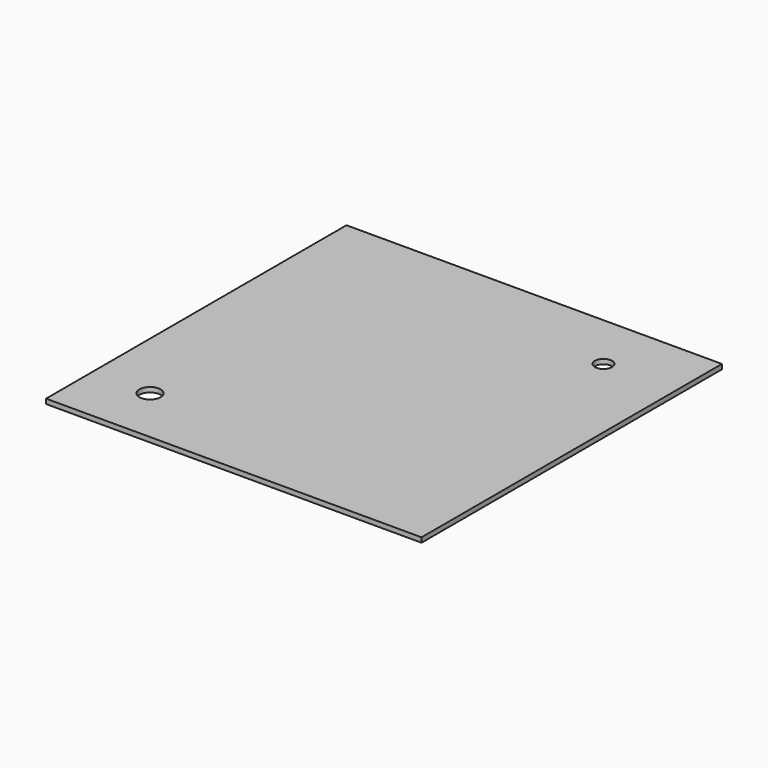
from build123d import *

# Parameters (mm, degrees)
SKETCH_W   = 495.3
SKETCH_H   = 495.3
SKETCH_R   = 11.303
SKETCH_R_2 = 13.97
PAD_DEPTH  = 6.35


with BuildPart() as part:
    # Sketch → Pad (new body)
    with BuildSketch(Plane(origin=(-304.8, -304.8, 6.35), x_dir=(1, 0, 0), z_dir=(0, 0, 1))):
        Rectangle(SKETCH_W, SKETCH_H)
        with Locations((152.4, 171.45)):
            Circle(SKETCH_R, mode=Mode.SUBTRACT)
        with Locations((-171.45, -171.45)):
            Circle(SKETCH_R_2, mode=Mode.SUBTRACT)
    extrude(amount=PAD_DEPTH)


solid = part.part
